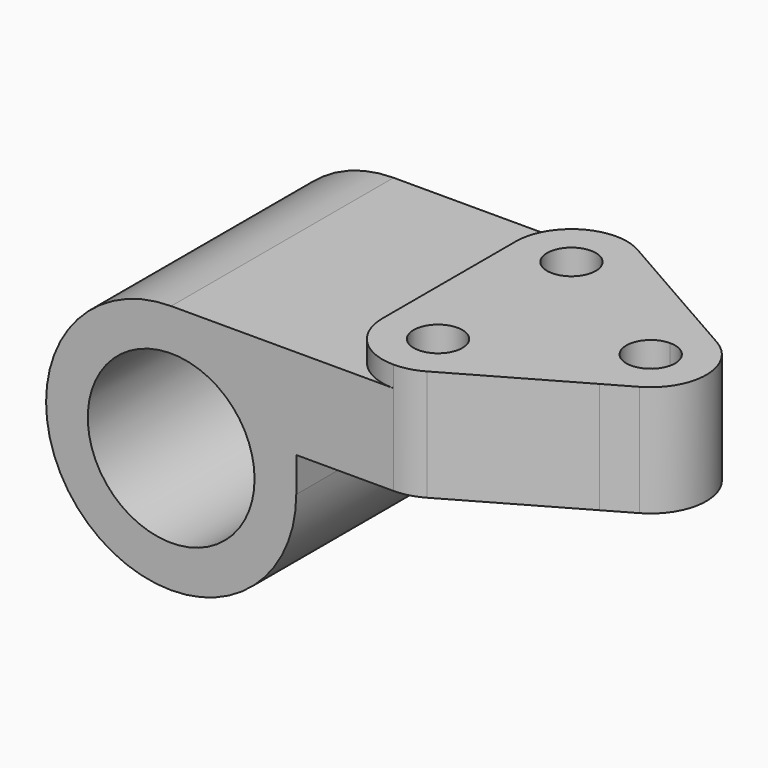
from build123d import *

# Parameters (mm, degrees)
F0_R      = 19.05
F1_DEPTH  = 63.5
F2_W      = 50.8
F2_H      = 36.4998
F3_DEPTH  = 63.501
F5_DEPTH  = 63.501
F6_R      = 5.5626
F7_DEPTH  = 20.6502
F8_DEPTH  = 20.6512
F9_DEPTH  = 25.4
F10_DEPTH = 25.4


with BuildPart() as f1:
    # F0 (on Front) → F1 (new body)
    with BuildSketch(Plane.XZ):
        with BuildLine():
            Line((84.1502, 28.575), (0, 28.575))
            ThreePointArc((0, 28.575), (-28.575, 0), (0, -28.575))
            Line((0, -28.575), (84.1502, -28.575))
            Line((84.1502, -28.575), (84.1502, 28.575))
        make_face()
        Circle(F0_R, mode=Mode.SUBTRACT)
    extrude(amount=-F1_DEPTH)

    # F2 (on Front) → F3 (cut, through all)
    with BuildSketch(Plane.XZ):
        with Locations((58.7502, -10.3251)):
            Rectangle(F2_W, F2_H)
    extrude(amount=-F3_DEPTH, mode=Mode.SUBTRACT)

    # F4 (on Front) → F5 (cut, through all)
    with BuildSketch(Plane.XZ):
        with BuildLine():
            ThreePointArc((28.575, 0), (20.205576, -20.205576), (0, -28.575))
            Line((0, -28.575), (33.3502, -28.575))
            Line((33.3502, -28.575), (33.3502, 7.9248))
            Line((33.3502, 7.9248), (28.575, 7.9248))
            Line((28.575, 7.9248), (28.575, 0))
        make_face()
    extrude(amount=-F5_DEPTH, mode=Mode.SUBTRACT)

    # F6 (on face) → F7 (join)
    with BuildSketch(Plane(origin=(0, 0, 7.9248), x_dir=(1, 0, 0), z_dir=(0, 0, -1))):
        with BuildLine():
            ThreePointArc((84.1502, -37.3126), (78.5876, -31.75), (84.1502, -26.1874))
            Line((84.1502, -26.1874), (84.1502, -17.124132))
            Line((84.1502, -17.124132), (57.099155, -1.672279))
            ThreePointArc((57.099155, -1.672279), (54.058676, -0.425187), (50.8, 0))
            ThreePointArc((50.8, 0), (41.819744, -3.719744), (38.1, -12.7))
            Line((38.1, -12.7), (38.1, -50.8))
            ThreePointArc((38.1, -50.8), (41.819744, -59.780256), (50.8, -63.5))
            ThreePointArc((50.8, -63.5), (54.058676, -63.074813), (57.099155, -61.827721))
            Line((57.099155, -61.827721), (84.1502, -46.375868))
            Line((84.1502, -46.375868), (84.1502, -37.3126))
        make_face()
        with Locations((50.8, -50.8)):
            Circle(F6_R, mode=Mode.SUBTRACT)
        with Locations((50.8, -12.7)):
            Circle(F6_R, mode=Mode.SUBTRACT)
        with BuildLine():
            ThreePointArc((84.1502, -26.1874), (88.083552, -27.816648), (89.7128, -31.75))
            ThreePointArc((89.7128, -31.75), (88.083552, -35.683352), (84.1502, -37.3126))
            Line((84.1502, -37.3126), (84.1502, -46.375868))
            Line((84.1502, -46.375868), (90.449355, -42.777721))
            ThreePointArc((90.449355, -42.777721), (96.8502, -31.75), (90.449355, -20.722279))
            Line((90.449355, -20.722279), (84.1502, -17.124132))
            Line((84.1502, -17.124132), (84.1502, -26.1874))
        make_face()
    extrude(amount=-F7_DEPTH)

    # F6 (on face) → F8 (cut, through all)
    with BuildSketch(Plane(origin=(0, 0, 7.9248), x_dir=(1, 0, 0), z_dir=(0, 0, -1))):
        with Locations((50.8, -12.7)):
            Circle(F6_R)
        with Locations((50.8, -50.8)):
            Circle(F6_R)
        with BuildLine():
            Line((84.1502, -37.3126), (84.1502, -26.1874))
            ThreePointArc((84.1502, -26.1874), (78.5876, -31.75), (84.1502, -37.3126))
        make_face()
    extrude(amount=-F8_DEPTH, mode=Mode.SUBTRACT)

    # F6 (on face) → F9 (cut)
    with BuildSketch(Plane(origin=(0, 0, 7.9248), x_dir=(1, 0, 0), z_dir=(0, 0, -1))):
        with BuildLine():
            Line((57.099155, -1.672279), (84.1502, -17.124132))
            Line((84.1502, -17.124132), (84.1502, 0))
            Line((84.1502, 0), (50.8, 0))
            ThreePointArc((50.8, 0), (54.058676, -0.425187), (57.099155, -1.672279))
        make_face()
        with BuildLine():
            Line((84.1502, -63.5), (84.1502, -46.375868))
            Line((84.1502, -46.375868), (57.099155, -61.827721))
            ThreePointArc((57.099155, -61.827721), (54.058676, -63.074813), (50.8, -63.5))
            Line((50.8, -63.5), (84.1502, -63.5))
        make_face()
    extrude(amount=-F9_DEPTH, mode=Mode.SUBTRACT)

    # F6 (on face) → F10 (join)
    with BuildSketch(Plane(origin=(0, 0, 7.9248), x_dir=(1, 0, 0), z_dir=(0, 0, -1))):
        with BuildLine():
            ThreePointArc((84.1502, -37.3126), (78.5876, -31.75), (84.1502, -26.1874))
            Line((84.1502, -26.1874), (84.1502, -17.124132))
            Line((84.1502, -17.124132), (57.099155, -1.672279))
            ThreePointArc((57.099155, -1.672279), (54.058676, -0.425187), (50.8, 0))
            ThreePointArc((50.8, 0), (41.819744, -3.719744), (38.1, -12.7))
            Line((38.1, -12.7), (38.1, -50.8))
            ThreePointArc((38.1, -50.8), (41.819744, -59.780256), (50.8, -63.5))
            ThreePointArc((50.8, -63.5), (54.058676, -63.074813), (57.099155, -61.827721))
            Line((57.099155, -61.827721), (84.1502, -46.375868))
            Line((84.1502, -46.375868), (84.1502, -37.3126))
        make_face()
        with Locations((50.8, -50.8)):
            Circle(F6_R, mode=Mode.SUBTRACT)
        with Locations((50.8, -12.7)):
            Circle(F6_R, mode=Mode.SUBTRACT)
        with BuildLine():
            ThreePointArc((84.1502, -26.1874), (88.083552, -27.816648), (89.7128, -31.75))
            ThreePointArc((89.7128, -31.75), (88.083552, -35.683352), (84.1502, -37.3126))
            Line((84.1502, -37.3126), (84.1502, -46.375868))
            Line((84.1502, -46.375868), (90.449355, -42.777721))
            ThreePointArc((90.449355, -42.777721), (96.8502, -31.75), (90.449355, -20.722279))
            Line((90.449355, -20.722279), (84.1502, -17.124132))
            Line((84.1502, -17.124132), (84.1502, -26.1874))
        make_face()
    extrude(amount=-F10_DEPTH)


solid = f1.part
